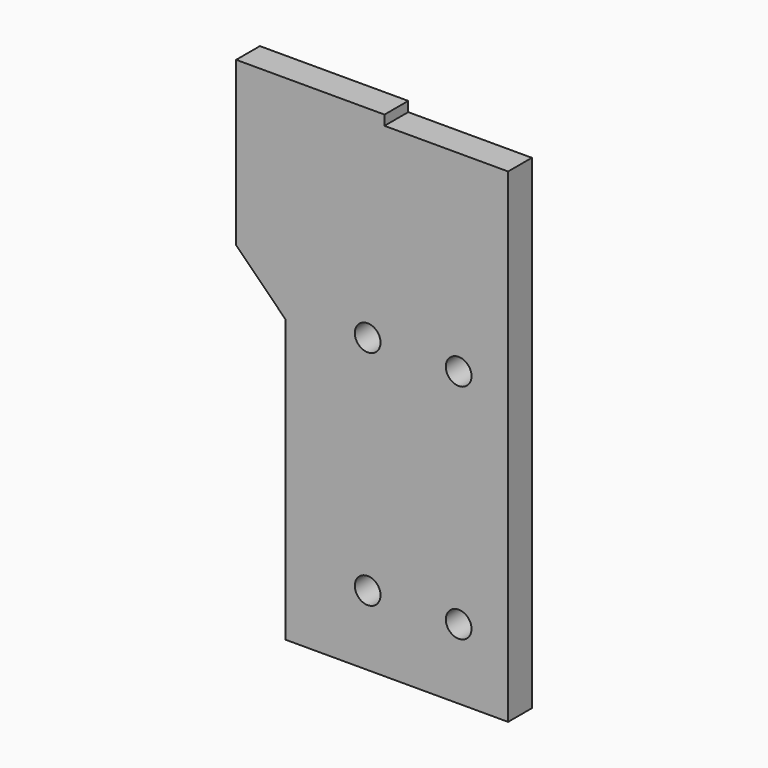
from build123d import *

# Parameters (mm, degrees)
F1_DEPTH = 6
F3_D     = 5.2


with BuildPart() as f1:
    # F0 (on Front) → F1 (new body)
    with BuildSketch(Plane.XZ):
        Polygon((-45, 0), (0, 0), (0, 98), (-25, 98), (-25, 100), (-55, 100), (-55, 67), (-45, 57), align=None)
    extrude(amount=F1_DEPTH)

    # F3 (through all)
    with Locations(Plane.XZ.offset(6)):
        with Locations((-10, 59.15), (-28.4, 59.15), (-28.4, 14.15), (-10, 14.15)):
            Hole(F3_D / 2)


solid = f1.part
